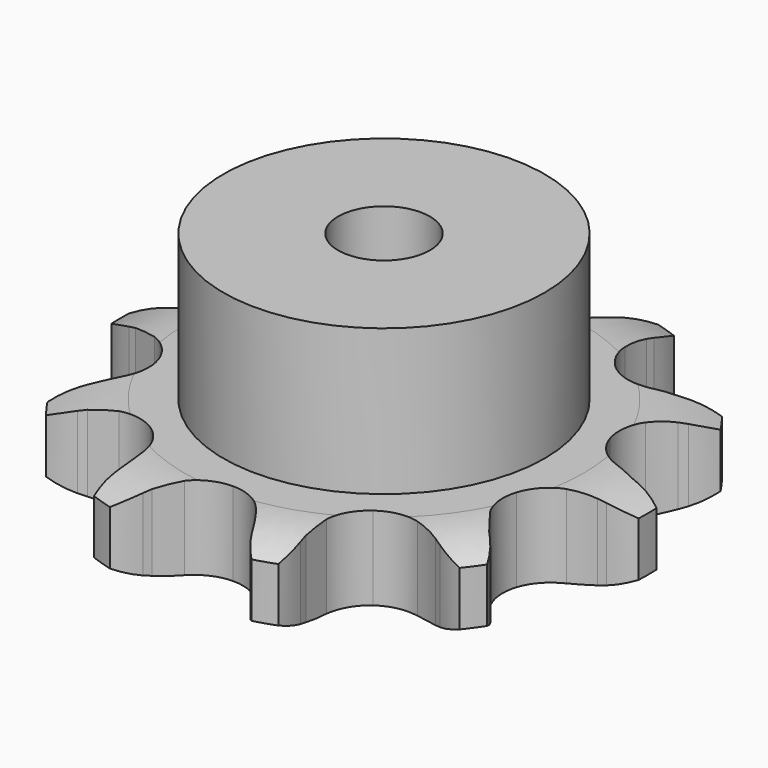
from build123d import *

# Parameters (mm, degrees)
PAD_DEPTH         = 9.1
SKETCH001_R       = 17.5
PAD001_DEPTH      = 25
SKETCH002_R       = 5
POCKET_DEPTH      = 0.001
POCKET_DEPTH_BACK = -25.001


with BuildPart() as part:
    # Sprocket → Pad (new body)
    with BuildSketch(Plane.XY):
        with BuildLine():
            ThreePointArc((-9.384236, 28.881708), (-7.411127, 27.404483), (-5.934887, 25.430638))
            Line((-5.934887, 25.430638), (-5.517872, 24.665778))
            ThreePointArc((-5.517872, 24.665778), (-4.763602, 23.444512), (-3.881849, 22.31185))
            ThreePointArc((-3.881849, 22.31185), (-2.132975, 21.005904), (0, 20.54279))
            ThreePointArc((0, 20.54279), (2.132975, 21.005904), (3.881849, 22.31185))
            ThreePointArc((3.881849, 22.31185), (4.763602, 23.444512), (5.517872, 24.665778))
            Line((5.517872, 24.665778), (5.934887, 25.430638))
            ThreePointArc((5.934887, 25.430638), (7.411127, 27.404483), (9.384236, 28.881708))
            ThreePointArc((9.384236, 28.881708), (10.112223, 26.526844), (10.14633, 24.062257))
            Line((10.14633, 24.062257), (10.034129, 23.198357))
            ThreePointArc((10.034129, 23.198357), (9.926503, 21.766984), (9.974095, 20.332359))
            ThreePointArc((9.974095, 20.332359), (10.621348, 18.247864), (12.074749, 16.619466))
            ThreePointArc((12.074749, 16.619466), (14.072573, 15.740402), (16.255058, 15.768972))
            Line((16.255058, 15.768972), (18.962233, 16.71171))
            ThreePointArc((18.962233, 16.71171), (19.352638, 16.905004), (19.749178, 17.085379))
            ThreePointArc((19.749178, 17.085379), (22.103679, 17.814541), (24.568248, 17.849877))
            ThreePointArc((24.568248, 17.849877), (23.773048, 15.516852), (22.351993, 13.502912))
            Line((22.351993, 13.502912), (21.753433, 12.869952))
            ThreePointArc((21.753433, 12.869952), (20.825022, 11.775208), (20.020273, 10.586598))
            ThreePointArc((20.020273, 10.586598), (19.318676, 8.519761), (19.537354, 6.348071))
            ThreePointArc((19.537354, 6.348071), (20.636927, 4.462602), (22.419388, 3.202883))
            Line((22.419388, 3.202883), (25.163665, 2.374337))
            ThreePointArc((25.163665, 2.374337), (25.593125, 2.30124), (26.019955, 2.214087))
            ThreePointArc((26.019955, 2.214087), (28.353376, 1.42005), (30.368025, 0))
            ThreePointArc((30.368025, 0), (28.353376, -1.42005), (26.019955, -2.214087))
            Line((26.019955, -2.214087), (25.163665, -2.374337))
            ThreePointArc((25.163665, -2.374337), (23.76909, -2.714298), (22.419388, -3.202883))
            ThreePointArc((22.419388, -3.202883), (20.636927, -4.462602), (19.537354, -6.348071))
            ThreePointArc((19.537354, -6.348071), (19.318676, -8.519761), (20.020273, -10.586598))
            Line((20.020273, -10.586598), (21.753433, -12.869952))
            ThreePointArc((21.753433, -12.869952), (22.057908, -13.18152), (22.351993, -13.502912))
            ThreePointArc((22.351993, -13.502912), (23.773048, -15.516852), (24.568248, -17.849877))
            ThreePointArc((24.568248, -17.849877), (22.103679, -17.814541), (19.749178, -17.085379))
            Line((19.749178, -17.085379), (18.962233, -16.71171))
            ThreePointArc((18.962233, -16.71171), (17.634174, -16.167034), (16.255058, -15.768972))
            ThreePointArc((16.255058, -15.768972), (14.072573, -15.740402), (12.074749, -16.619466))
            ThreePointArc((12.074749, -16.619466), (10.621348, -18.247864), (9.974095, -20.332359))
            Line((9.974095, -20.332359), (10.034129, -23.198357))
            ThreePointArc((10.034129, -23.198357), (10.09732, -23.629386), (10.14633, -24.062257))
            ThreePointArc((10.14633, -24.062257), (10.112223, -26.526844), (9.384236, -28.881708))
            ThreePointArc((9.384236, -28.881708), (7.411127, -27.404483), (5.934887, -25.430638))
            Line((5.934887, -25.430638), (5.517872, -24.665778))
            ThreePointArc((5.517872, -24.665778), (4.763602, -23.444512), (3.881849, -22.31185))
            ThreePointArc((3.881849, -22.31185), (2.132975, -21.005904), (0, -20.54279))
            ThreePointArc((0, -20.54279), (-2.132975, -21.005904), (-3.881849, -22.31185))
            Line((-3.881849, -22.31185), (-5.517872, -24.665778))
            ThreePointArc((-5.517872, -24.665778), (-5.720102, -25.051631), (-5.934887, -25.430638))
            ThreePointArc((-5.934887, -25.430638), (-7.411127, -27.404483), (-9.384236, -28.881708))
            ThreePointArc((-9.384236, -28.881708), (-10.112223, -26.526844), (-10.14633, -24.062257))
            Line((-10.14633, -24.062257), (-10.034129, -23.198357))
            ThreePointArc((-10.034129, -23.198357), (-9.926503, -21.766984), (-9.974095, -20.332359))
            ThreePointArc((-9.974095, -20.332359), (-10.621348, -18.247864), (-12.074749, -16.619466))
            ThreePointArc((-12.074749, -16.619466), (-14.072573, -15.740402), (-16.255058, -15.768972))
            Line((-16.255058, -15.768972), (-18.962233, -16.71171))
            ThreePointArc((-18.962233, -16.71171), (-19.352638, -16.905004), (-19.749178, -17.085379))
            ThreePointArc((-19.749178, -17.085379), (-22.103679, -17.814541), (-24.568248, -17.849877))
            ThreePointArc((-24.568248, -17.849877), (-23.773048, -15.516852), (-22.351993, -13.502912))
            Line((-22.351993, -13.502912), (-21.753433, -12.869952))
            ThreePointArc((-21.753433, -12.869952), (-20.825022, -11.775208), (-20.020273, -10.586598))
            ThreePointArc((-20.020273, -10.586598), (-19.318676, -8.519761), (-19.537354, -6.348071))
            ThreePointArc((-19.537354, -6.348071), (-20.636927, -4.462602), (-22.419388, -3.202883))
            Line((-22.419388, -3.202883), (-25.163665, -2.374337))
            ThreePointArc((-25.163665, -2.374337), (-25.593125, -2.30124), (-26.019955, -2.214087))
            ThreePointArc((-26.019955, -2.214087), (-28.353376, -1.42005), (-30.368025, 0))
            ThreePointArc((-30.368025, 0), (-28.353376, 1.42005), (-26.019955, 2.214087))
            Line((-26.019955, 2.214087), (-25.163665, 2.374337))
            ThreePointArc((-25.163665, 2.374337), (-23.76909, 2.714298), (-22.419388, 3.202883))
            ThreePointArc((-22.419388, 3.202883), (-20.636927, 4.462602), (-19.537354, 6.348071))
            ThreePointArc((-19.537354, 6.348071), (-19.318676, 8.519761), (-20.020273, 10.586598))
            Line((-20.020273, 10.586598), (-21.753433, 12.869952))
            ThreePointArc((-21.753433, 12.869952), (-22.057908, 13.18152), (-22.351993, 13.502912))
            ThreePointArc((-22.351993, 13.502912), (-23.773048, 15.516852), (-24.568248, 17.849877))
            ThreePointArc((-24.568248, 17.849877), (-22.103679, 17.814541), (-19.749178, 17.085379))
            Line((-19.749178, 17.085379), (-18.962233, 16.71171))
            ThreePointArc((-18.962233, 16.71171), (-17.634174, 16.167034), (-16.255058, 15.768972))
            ThreePointArc((-16.255058, 15.768972), (-14.072573, 15.740402), (-12.074749, 16.619466))
            ThreePointArc((-12.074749, 16.619466), (-10.621348, 18.247864), (-9.974095, 20.332359))
            Line((-9.974095, 20.332359), (-10.034129, 23.198357))
            ThreePointArc((-10.034129, 23.198357), (-10.09732, 23.629386), (-10.14633, 24.062257))
            ThreePointArc((-10.14633, 24.062257), (-10.112223, 26.526844), (-9.384236, 28.881708))
        make_face()
    extrude(amount=PAD_DEPTH)

    # Sketch → Groove (revolve, cut)
    with BuildSketch(Plane.XZ):
        with BuildLine():
            Line((21.775762, 0), (28.75, 0))
            Line((35.724238, 0), (28.75, 0))
            Line((35.724238, 9.1), (35.724238, 0))
            Line((28.75, 9.1), (35.724238, 9.1))
            Line((21.775762, 9.1), (28.75, 9.1))
            ThreePointArc((28.75, 7.5), (25.35347, 8.694871), (21.775762, 9.1))
            Line((28.75, 1.6), (28.75, 7.5))
            ThreePointArc((21.775762, 0), (25.35347, 0.405129), (28.75, 1.6))
        make_face()
    revolve(axis=Axis((0, 0, 0), (0, 0, 1)), mode=Mode.SUBTRACT)

    # Sketch001 → Pad001 (join)
    with BuildSketch(Plane.XY):
        Circle(SKETCH001_R)
    extrude(amount=PAD001_DEPTH)

    # Sketch002 → Pocket (cut, two sides)
    with BuildSketch(Plane.XY) as pocket_sk:
        Circle(SKETCH002_R)
    extrude(amount=-POCKET_DEPTH, mode=Mode.SUBTRACT)
    extrude(pocket_sk.sketch, amount=-POCKET_DEPTH_BACK, mode=Mode.SUBTRACT)


solid = part.part
